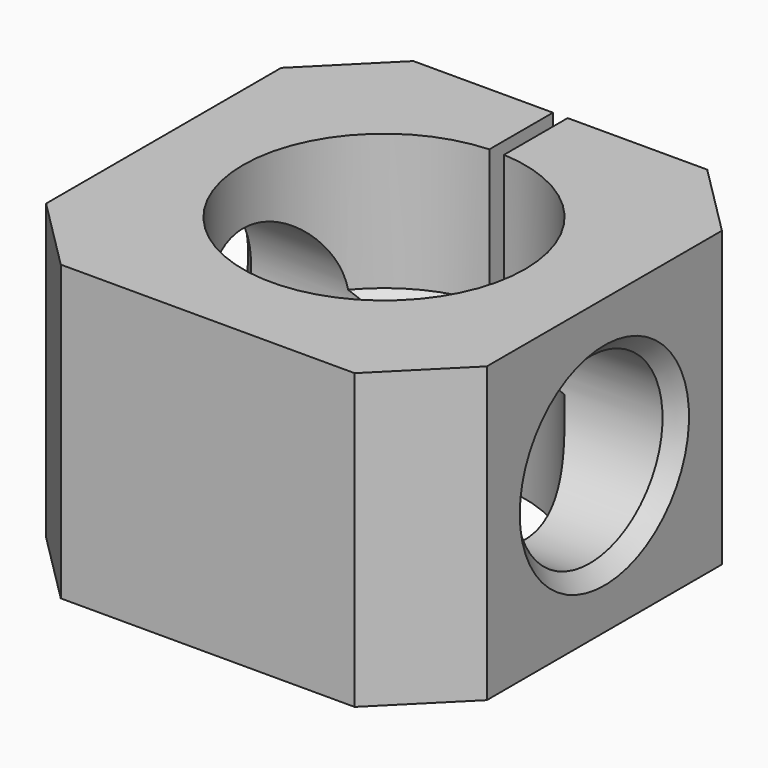
from build123d import *

# Parameters (mm, degrees)
SKETCH047_W     = 30
SKETCH047_H     = 30
SKETCH047_R     = 9.6
PAD018_DEPTH    = 20
SKETCH049_W     = 1
SKETCH049_H     = 15
POCKET028_DEPTH = 20
SKETCH050_R     = 6.2
POCKET029_DEPTH = 40
CHAMFER004_SIZE = 1
CHAMFER005_SIZE = 5


with BuildPart() as part:
    # Sketch047 → Pad018 (new body)
    with BuildSketch(Plane.XY):
        Rectangle(SKETCH047_W, SKETCH047_H)
        Circle(SKETCH047_R, mode=Mode.SUBTRACT)
    extrude(amount=PAD018_DEPTH)

    # Sketch048 → Revolution002 (revolve)
    with BuildSketch(Plane.YZ):
        Polygon((9.6, 10.75), (9.6, 9.25), (8.7, 9.75), (8.7, 10.25), align=None)
    revolve(axis=Axis((0, 0, 0), (0, 0, 1)))

    # Sketch049 (on Face11 of Revolution002) → Pocket028 (cut)
    with BuildSketch(Plane.XY.offset(20)):
        with Locations((0, 7.5)):
            Rectangle(SKETCH049_W, SKETCH049_H)
    extrude(amount=-POCKET028_DEPTH, mode=Mode.SUBTRACT)

    # Sketch050 (on Face12 of Pocket028) → Pocket029 (cut)
    with BuildSketch(Plane(origin=(-15, 0, 0), x_dir=(0, -1, 0), z_dir=(-1, 0, 0))):
        with Locations((0, 10)):
            Circle(SKETCH050_R)
    extrude(amount=-POCKET029_DEPTH, mode=Mode.SUBTRACT)

    # Chamfer004
    chamfer004_edges = [part.edges().sort_by_distance(p)[0] for p in [
        (-15, 6.2, 10),
        (15, 6.2, 10),
    ]]
    chamfer(chamfer004_edges, length=CHAMFER004_SIZE)

    # Chamfer005
    chamfer005_edges = [part.edges().sort_by_distance(p)[0] for p in [
        (-15, -15, 10),
        (-15, 15, 10),
        (15, -15, 10),
        (15, 15, 10),
    ]]
    chamfer(chamfer005_edges, length=CHAMFER005_SIZE)


solid = part.part
